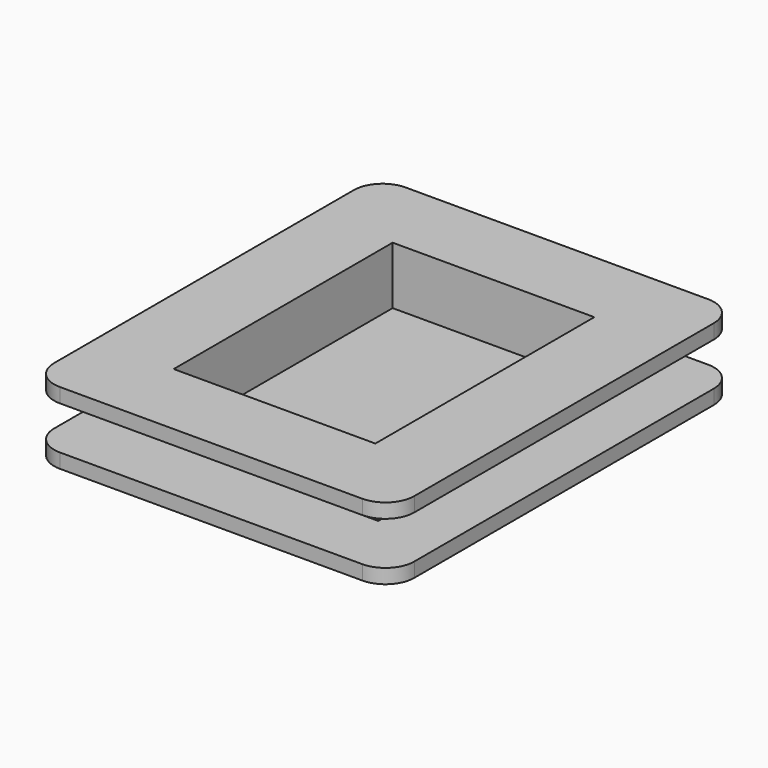
from build123d import *

# Parameters (mm, degrees)
F1_DEPTH = 1
F2_W     = 16
F2_H     = 21
F2_W_2   = 14
F2_H_2   = 19
F3_DEPTH = 3
F4_W     = 14
F4_H     = 19
F5_DEPTH = 1


with BuildPart() as f1:
    # F0 (on Top) → F1 (new body)
    with BuildSketch(Plane.XY):
        with BuildLine():
            ThreePointArc((12.5, 13), (11.914214, 14.414214), (10.5, 15))
            Line((10.5, 15), (-10.5, 15))
            ThreePointArc((-10.5, 15), (-11.914214, 14.414214), (-12.5, 13))
            Line((-12.5, 13), (-12.5, -13))
            ThreePointArc((-12.5, -13), (-11.914214, -14.414214), (-10.5, -15))
            Line((-10.5, -15), (10.5, -15))
            ThreePointArc((10.5, -15), (11.914214, -14.414214), (12.5, -13))
            Line((12.5, -13), (12.5, 13))
        make_face()
    extrude(amount=F1_DEPTH)

    # F2 (on face) → F3 (join)
    with BuildSketch(Plane.XY.offset(1)):
        Rectangle(F2_W, F2_H)
        Rectangle(F2_W_2, F2_H_2, mode=Mode.SUBTRACT)
    extrude(amount=F3_DEPTH)

    # F4 (on face) → F5 (join)
    with BuildSketch(Plane.XY.offset(4)):
        with BuildLine():
            ThreePointArc((12.5, 13), (11.914214, 14.414214), (10.5, 15))
            Line((10.5, 15), (-10.5, 15))
            ThreePointArc((-10.5, 15), (-11.914214, 14.414214), (-12.5, 13))
            Line((-12.5, 13), (-12.5, -13))
            ThreePointArc((-12.5, -13), (-11.914214, -14.414214), (-10.5, -15))
            Line((-10.5, -15), (10.5, -15))
            ThreePointArc((10.5, -15), (11.914214, -14.414214), (12.5, -13))
            Line((12.5, -13), (12.5, 13))
        make_face()
        Rectangle(F4_W, F4_H, mode=Mode.SUBTRACT)
    extrude(amount=F5_DEPTH)


solid = f1.part
